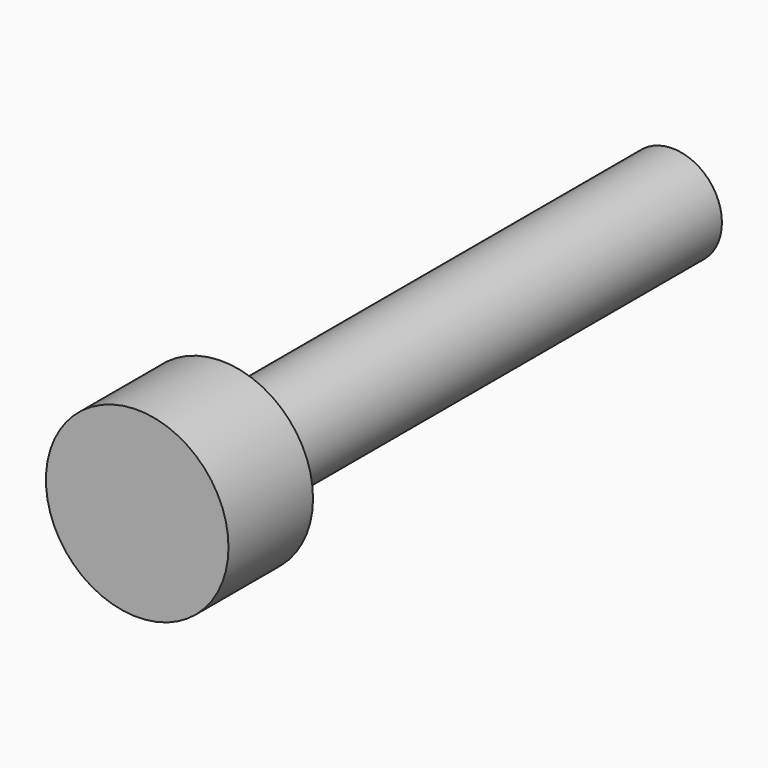
from build123d import *

# Parameters (mm, degrees)
F0_R     = 7
F1_DEPTH = 80
F2_R     = 12.958166
F2_R_2   = 7
F3_DEPTH = 15


with BuildPart() as f1:
    # F0 (on Front) → F1 (new body)
    with BuildSketch(Plane.XZ):
        Circle(F0_R)
    extrude(amount=F1_DEPTH)


with BuildPart() as f3:
    # F2 (on face) → F3 (new body)
    with BuildSketch(Plane.XZ.offset(80)):
        Circle(F2_R)
        Circle(F2_R_2, mode=Mode.SUBTRACT)
        Circle(F2_R_2)
    extrude(amount=F3_DEPTH)


solid = Compound([f1.part, f3.part])
